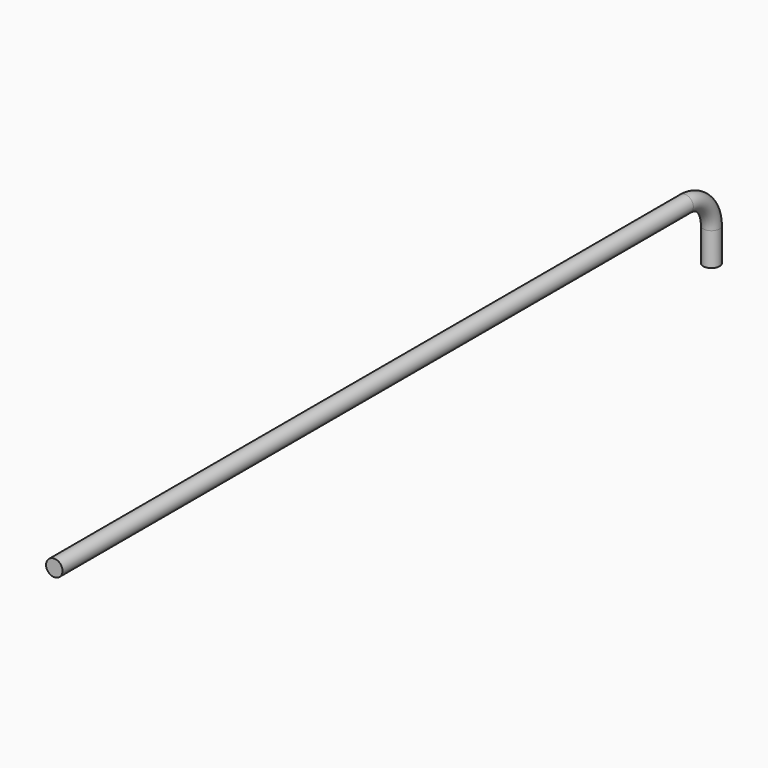
from build123d import *

# Parameters (mm, degrees)
F0_R      = 3.175
F1_DEPTH  = 304.8
F1_FACE_R = 3.175


with BuildPart() as f1:
    # F0 (on Front) → F1 (new body)
    with BuildSketch(Plane.XZ):
        Circle(F0_R)
    extrude(amount=F1_DEPTH)

    # F3: sweep along a path in F2
    with BuildLine(Plane.YZ) as f3_path:
        ThreePointArc((0, 0), (8.980256, -3.719744), (12.7, -12.7))
        Line((12.7, -12.7), (12.7, -25.4))
    # F1_face (on face) → F3 (sweep)
    with BuildSketch(Plane(origin=(0, 0, 0), x_dir=(1, 0, 0), z_dir=(0, 1, 0))):
        Circle(F1_FACE_R)
    sweep(path=f3_path.line)


solid = f1.part
